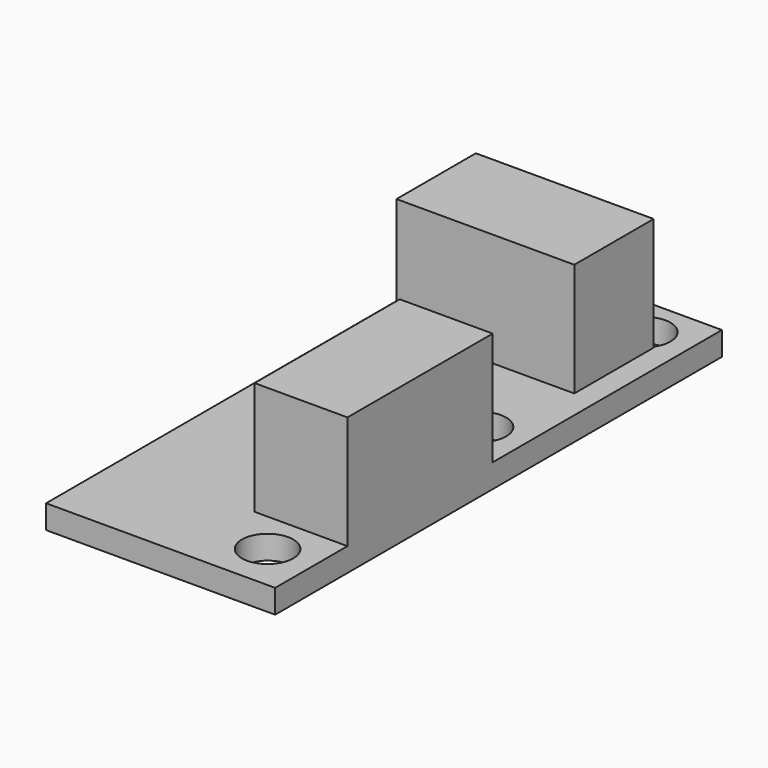
from build123d import *

# Parameters (mm, degrees)
F0_W     = 16.17
F0_H     = 39.42
F0_R     = 1.81
F1_DEPTH = 1.67
F2_W     = 6.56
F2_H     = 12.81
F2_W_2   = 12.55
F2_H_2   = 7
F3_DEPTH = 8


with BuildPart() as f1:
    # F0 (on Top) → F1 (new body)
    with BuildSketch(Plane.XY):
        Rectangle(F0_W, F0_H)
        with Locations((4.855, -16.34)):
            Circle(F0_R, mode=Mode.SUBTRACT)
        with Locations((-5.235, 17.16)):
            Circle(F0_R, mode=Mode.SUBTRACT)
        with Locations((4.925, 2.36)):
            Circle(F0_R, mode=Mode.SUBTRACT)
        with Locations((4.925, 16.86)):
            Circle(F0_R, mode=Mode.SUBTRACT)
    extrude(amount=F1_DEPTH)

    # F2 (on face) → F3 (join)
    with BuildSketch(Plane.XY.offset(1.67)):
        with Locations((4.805, -6.925)):
            Rectangle(F2_W, F2_H)
        with Locations((0.19, 12.21)):
            Rectangle(F2_W_2, F2_H_2)
    extrude(amount=F3_DEPTH)


solid = f1.part
